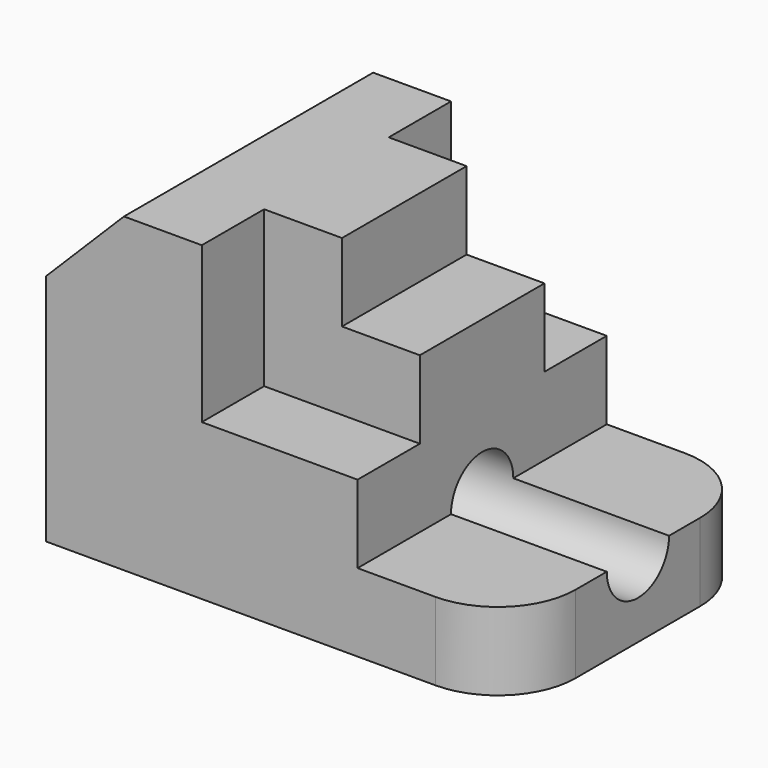
from build123d import *

# Parameters (mm, degrees)
F0_W      = 76.2
F0_H      = 50.8
F1_DEPTH  = 25.4
F3_DEPTH  = 25.4
F5_DEPTH  = 76.2
F6_DEPTH  = 25.4
F7_DEPTH  = 76.2
F8_W      = 50.8
F8_H      = 25.4
F9_DEPTH  = 12.7
F10_W     = 50.8
F10_H     = 25.4
F11_DEPTH = 12.7
F12_W     = 25.4
F12_H     = 12.7
F13_DEPTH = 38.1
F14_R     = 12.7
F15_R     = 12.7


with BuildPart() as f1:
    # F0 (on Front) → F1 (new body, symmetric)
    with BuildSketch(Plane.XZ):
        with Locations((38.1, 25.4)):
            Rectangle(F0_W, F0_H)
    extrude(amount=F1_DEPTH, both=True)

    # F2 (on Front) → F3 (cut, symmetric)
    with BuildSketch(Plane.XZ):
        Polygon((12.7, 50.8), (0, 50.8), (0, 38.1), align=None)
    extrude(amount=F3_DEPTH, both=True, mode=Mode.SUBTRACT)

    # F4 (on face) → F5 (cut)
    with BuildSketch(Plane.YZ.offset(76.2)):
        with BuildLine():
            Line((-25.4, 25.4), (-25.4, 12.7))
            Line((-25.4, 12.7), (-6.35, 12.7))
            ThreePointArc((-6.35, 12.7), (0, 19.05), (6.35, 12.7))
            Line((6.35, 12.7), (25.4, 12.7))
            Line((25.4, 12.7), (25.4, 25.4))
            Line((25.4, 25.4), (12.7, 25.4))
            Line((12.7, 25.4), (12.7, 38.1))
            Line((12.7, 38.1), (-12.7, 38.1))
            Line((-12.7, 38.1), (-12.7, 25.4))
            Line((-12.7, 25.4), (-25.4, 25.4))
        make_face()
        with BuildLine():
            ThreePointArc((6.35, 12.7), (0, 19.05), (-6.35, 12.7))
            ThreePointArc((-6.35, 12.7), (0, 6.35), (6.35, 12.7))
        make_face()
    extrude(amount=F5_DEPTH, mode=Mode.SUBTRACT)

    # F4 (on face) → F6 (cut)
    with BuildSketch(Plane.YZ.offset(76.2)):
        with BuildLine():
            Line((-25.4, 25.4), (-25.4, 12.7))
            Line((-25.4, 12.7), (-6.35, 12.7))
            ThreePointArc((-6.35, 12.7), (0, 19.05), (6.35, 12.7))
            Line((6.35, 12.7), (25.4, 12.7))
            Line((25.4, 12.7), (25.4, 25.4))
            Line((25.4, 25.4), (12.7, 25.4))
            Line((12.7, 25.4), (12.7, 38.1))
            Line((12.7, 38.1), (-12.7, 38.1))
            Line((-12.7, 38.1), (-12.7, 25.4))
            Line((-12.7, 25.4), (-25.4, 25.4))
        make_face()
    extrude(amount=-F6_DEPTH, mode=Mode.SUBTRACT)

    # F4 (on face) → F7 (cut)
    with BuildSketch(Plane.YZ.offset(76.2)):
        with BuildLine():
            ThreePointArc((6.35, 12.7), (0, 19.05), (-6.35, 12.7))
            ThreePointArc((-6.35, 12.7), (0, 6.35), (6.35, 12.7))
        make_face()
    extrude(amount=-F7_DEPTH, mode=Mode.SUBTRACT)

    # F8 (on face) → F9 (cut)
    with BuildSketch(Plane.XZ.offset(25.4)):
        with Locations((50.8, 38.1)):
            Rectangle(F8_W, F8_H)
    extrude(amount=-F9_DEPTH, mode=Mode.SUBTRACT)

    # F10 (on face) → F11 (cut)
    with BuildSketch(Plane(origin=(0, 25.4, 0), x_dir=(-1, 0, 0), z_dir=(0, 1, 0))):
        with Locations((-50.8, 38.1)):
            Rectangle(F10_W, F10_H)
    extrude(amount=-F11_DEPTH, mode=Mode.SUBTRACT)

    # F12 (on face) → F13 (cut)
    with BuildSketch(Plane.YZ.offset(76.2)):
        with Locations((0, 44.45)):
            Rectangle(F12_W, F12_H)
    extrude(amount=-F13_DEPTH, mode=Mode.SUBTRACT)

    # F14
    f14_edges = [f1.edges().sort_by_distance(p)[0] for p in [
        (76.2, -25.4, 6.35),
    ]]
    fillet(f14_edges, radius=F14_R)

    # F15
    f15_edges = [f1.edges().sort_by_distance(p)[0] for p in [
        (76.2, 25.4, 6.35),
    ]]
    fillet(f15_edges, radius=F15_R)


solid = f1.part
